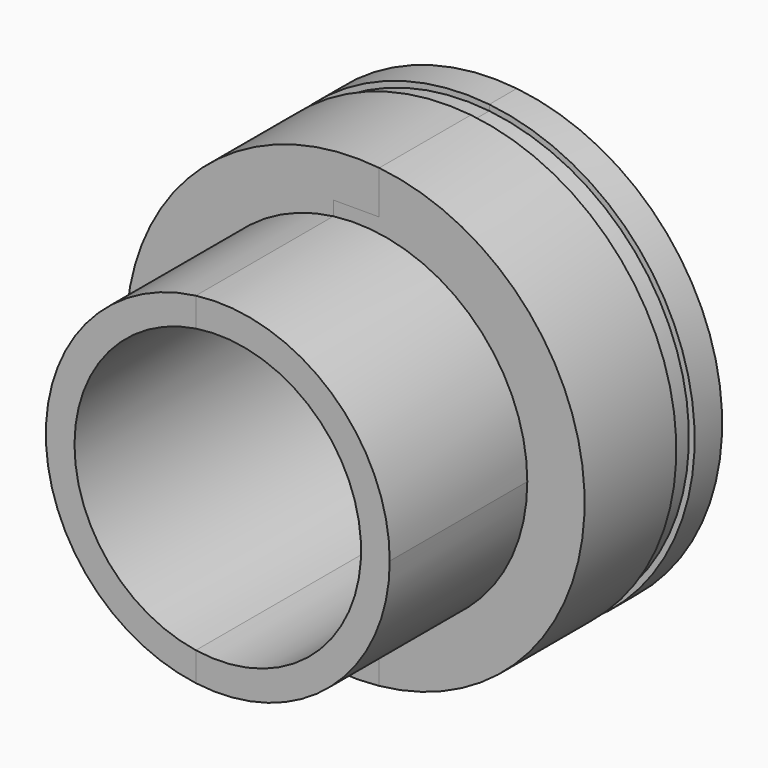
from build123d import *

# Parameters (mm, degrees)
F0_R      = 15
F0_R_2    = 12.5
F1_DEPTH  = 30
F0_R_3    = 20
F2_DEPTH  = 30
F5_DEPTH  = 30.001
F6_DEPTH  = 30
F8_DEPTH  = 15
F10_DEPTH = 15
F12_START = -3
F12_DEPTH = 2
F14_START = -3
F14_DEPTH = 2


with BuildPart() as f1:
    # F0 (on Front) → F1 (new body)
    with BuildSketch(Plane.XZ):
        Circle(F0_R)
        Circle(F0_R_2, mode=Mode.SUBTRACT)
    extrude(amount=F1_DEPTH)

    # F0 (on Front) → F2 (join)
    with BuildSketch(Plane.XZ):
        Circle(F0_R_3)
        Circle(F0_R, mode=Mode.SUBTRACT)
    extrude(amount=F2_DEPTH)

    # F4 (on face) → F5 (cut, through all)
    with BuildSketch(Plane(origin=(0, 0, 0), x_dir=(-1, 0, 0), z_dir=(0, 1, 0))):
        with BuildLine():
            ThreePointArc((-2.0845379567, 19.891070899), (-15.5123164514, 12.6241054459), (-19.8997487421, -2))
            Line((-19.8997487421, -2), (-15.8997487421, -2))
            Line((-15.8997487421, -2), (-15.8997487421, 2))
            Line((-15.8997487421, 2), (-12.3389626793, 2))
            ThreePointArc((-12.3389626793, 2), (-7.3454219936, 10.1140879834), (1.9154620433, 12.3523684029))
            Line((1.9154620433, 12.3523684029), (1.9154620433, 16.1217196509))
            Line((1.9154620433, 16.1217196509), (-2.0845379567, 16.1217196509))
            Line((-2.0845379567, 16.1217196509), (-2.0845379567, 19.891070899))
        make_face()
        with BuildLine():
            Line((-15.8997487421, -2), (-19.8997487421, -2))
            ThreePointArc((-19.8997487421, -2), (-14.172149445, -14.1120579686), (-2.0845379567, -19.891070899))
            Line((-2.0845379567, -19.891070899), (-2.0845379567, -16.1217196509))
            Line((-2.0845379567, -16.1217196509), (1.9154620433, -16.1217196509))
            Line((1.9154620433, -16.1217196509), (1.9154620433, -12.3523684029))
            ThreePointArc((1.9154620433, -12.3523684029), (-8.8333015761, -8.8443644919), (-12.3547561692, 1.9))
            ThreePointArc((-12.3547561692, 1.9), (-12.3469606641, 1.9500159893), (-12.3389626793, 2))
            Line((-12.3389626793, 2), (-15.8997487421, 2))
            Line((-15.8997487421, 2), (-15.8997487421, -2))
        make_face()
    extrude(amount=-F5_DEPTH, mode=Mode.SUBTRACT)

    # F7 (on face) → F8 (cut)
    with BuildSketch(Plane.XZ.offset(30)):
        with BuildLine():
            ThreePointArc((-1.9154620433, -14.8771974901), (-15, 0), (-1.9154620433, 14.8771974901))
            Line((-1.9154620433, 14.8771974901), (-1.9154620433, 16.1217196509))
            Line((-1.9154620433, 16.1217196509), (2.0845379567, 16.1217196509))
            Line((2.0845379567, 16.1217196509), (2.0845379567, 19.891070899))
            ThreePointArc((2.0845379567, 19.891070899), (-20, 0), (2.0845379567, -19.891070899))
            Line((2.0845379567, -19.891070899), (2.0845379567, -16.1217196509))
            Line((2.0845379567, -16.1217196509), (-1.9154620433, -16.1217196509))
            Line((-1.9154620433, -16.1217196509), (-1.9154620433, -14.8771974901))
        make_face()
    extrude(amount=-F8_DEPTH, mode=Mode.SUBTRACT)

    # F13 (on face) → F14 (cut)
    with BuildSketch(Plane(origin=(0, 0, 0), x_dir=(-1, 0, 0), z_dir=(0, 1, 0)).offset(F14_START)):
        with BuildLine():
            ThreePointArc((-2.0845379567, 19.3882619517), (13.0307618704, 14.506868893), (19.5, 0))
            ThreePointArc((19.5, 0), (13.0307618704, -14.506868893), (-2.0845379567, -19.3882619517))
            Line((-2.0845379567, -19.3882619517), (-2.0845379567, -19.891070899))
            ThreePointArc((-2.0845379567, -19.891070899), (20, 0), (-2.0845379567, 19.891070899))
            Line((-2.0845379567, 19.891070899), (-2.0845379567, 19.3882619517))
        make_face()
    extrude(amount=-F14_DEPTH, mode=Mode.SUBTRACT)


with BuildPart() as f6:
    # F3 (on face) → F6 (new body)
    with BuildSketch(Plane(origin=(0, 0, 0), x_dir=(-1, 0, 0), z_dir=(0, 1, 0))):
        with BuildLine():
            Line((-2.0845379567, 16.1217196509), (-2.0845379567, 19.891070899))
            ThreePointArc((-2.0845379567, 19.891070899), (-20, 0), (-2.0845379567, -19.891070899))
            Line((-2.0845379567, -19.891070899), (-2.0845379567, -16.1217196509))
            Line((-2.0845379567, -16.1217196509), (1.9154620433, -16.1217196509))
            Line((1.9154620433, -16.1217196509), (1.9154620433, -12.3523684029))
            ThreePointArc((1.9154620433, -12.3523684029), (-12.5, 0), (1.9154620433, 12.3523684029))
            Line((1.9154620433, 12.3523684029), (1.9154620433, 16.1217196509))
            Line((1.9154620433, 16.1217196509), (-2.0845379567, 16.1217196509))
        make_face()
    extrude(amount=-F6_DEPTH)

    # F9 (on face) → F10 (cut)
    with BuildSketch(Plane.XZ.offset(30)):
        with BuildLine():
            ThreePointArc((-1.9154620433, 14.8771974901), (9.9062623968, 11.2634792726), (15, 0))
            ThreePointArc((15, 0), (9.9062623968, -11.2634792726), (-1.9154620433, -14.8771974901))
            Line((-1.9154620433, -14.8771974901), (-1.9154620433, -16.1217196509))
            Line((-1.9154620433, -16.1217196509), (2.0845379567, -16.1217196509))
            Line((2.0845379567, -16.1217196509), (2.0845379567, -19.891070899))
            ThreePointArc((2.0845379567, -19.891070899), (20, 0), (2.0845379567, 19.891070899))
            Line((2.0845379567, 19.891070899), (2.0845379567, 16.1217196509))
            Line((2.0845379567, 16.1217196509), (-1.9154620433, 16.1217196509))
            Line((-1.9154620433, 16.1217196509), (-1.9154620433, 14.8771974901))
        make_face()
    extrude(amount=-F10_DEPTH, mode=Mode.SUBTRACT)

    # F11 (on face) → F12 (cut)
    with BuildSketch(Plane(origin=(0, 0, 0), x_dir=(-1, 0, 0), z_dir=(0, 1, 0)).offset(F12_START)):
        with BuildLine():
            ThreePointArc((-2.0845379567, -19.3882619517), (-19.5, 0), (-2.0845379567, 19.3882619517))
            Line((-2.0845379567, 19.3882619517), (-2.0845379567, 19.891070899))
            ThreePointArc((-2.0845379567, 19.891070899), (-20, 0), (-2.0845379567, -19.891070899))
            Line((-2.0845379567, -19.891070899), (-2.0845379567, -19.3882619517))
        make_face()
    extrude(amount=-F12_DEPTH, mode=Mode.SUBTRACT)


solid = Compound([f1.part, f6.part])
